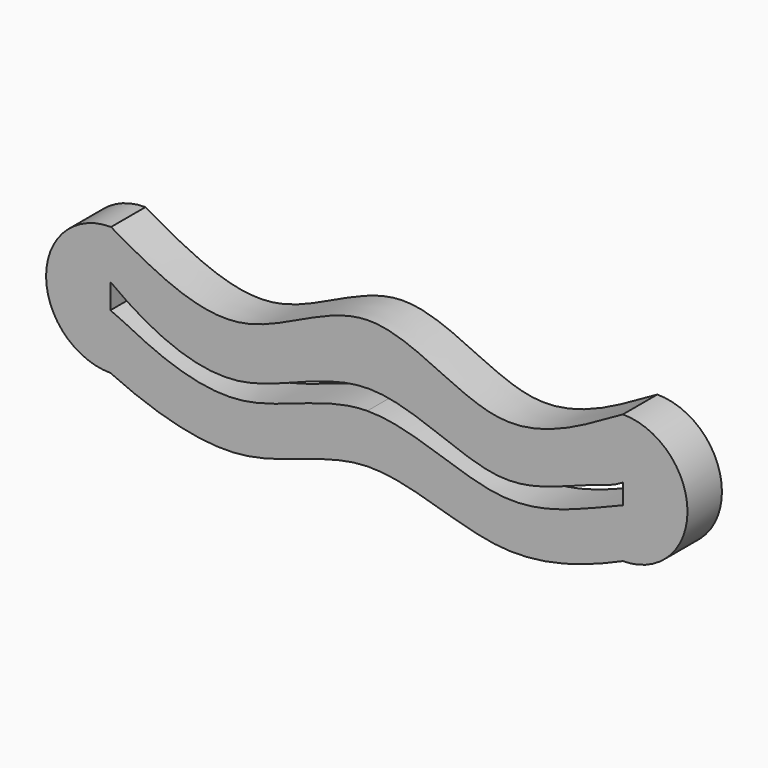
from build123d import *

# Parameters (mm, degrees)
F1_DEPTH = 12.7


with BuildPart() as f1:
    # F0 (on Front) → F1 (new body)
    with BuildSketch(Plane.XZ):
        with BuildLine():
            Line((-76.3732939959, -14.74838797), (-76.3732939959, -0.4407114726))
            ThreePointArc((-76.3732939959, -0.4407114726), (-95.3521876711, -19.4196051478), (-76.3732939959, -38.3984988231))
            Line((-76.3732939959, -38.3984988231), (-76.3732939959, -22.1225805581))
            Line((-76.3732939959, -22.1225805581), (-76.3732939959, -19.4196051478))
            Line((-76.3732939959, -19.4196051478), (-76.3732939959, -14.74838797))
        make_face()
        with BuildLine():
            add(Edge.make_bspline(
                [(-76.1963626412, -0.4415362147), (-63.4554494128, -7.7220580595), (-38.0442806352, -21.9071743913), (-12.7646136786, 0.0070951571), (0, 0)],
                knots=[0, 0, 0, 0, 0.2508053785, 0.5020542919, 0.5020542919, 0.5020542919, 0.5020542919], degree=3))
            ThreePointArc((-76.1963626412, -0.4415362147), (-76.2848273574, -0.4409176592), (-76.3732939959, -0.4407114726))
            Line((-76.3732939959, -0.4407114726), (-76.3732939959, -14.74838797))
            add(Edge.make_bspline(
                [(-76.3732939959, -14.74838797), (-72.5969617493, -17.5239941116), (-63.5968037874, -23.7991821261), (-36.7151744714, -33.5297470965), (-13.146769664, -17.5958580302), (0, -17.6980644464)],
                knots=[0, 0, 0, 0, 0.1291381136, 0.2978073868, 0.5059142002, 0.5059142002, 0.5059142002, 0.5059142002], degree=3))
            Line((0, -17.6980644464), (0, 0))
        make_face()
        with BuildLine():
            Line((-76.3732939959, -22.1225805581), (-76.3732939959, -38.3984988231))
            add(Edge.make_bspline(
                [(-76.3732939959, -38.3984988231), (-65.4556199398, -43.4326327745), (-37.2565335761, -53.3774078279), (-13.164973983, -38.3028608946), (-0.580739674, -38.0057516119)],
                knots=[0, 0, 0, 0, 0.2513224035, 0.5012724723, 0.5012724723, 0.5012724723, 0.5012724723], degree=3))
            Line((-0.580739674, -38.0057516119), (-0.580739674, -23.6018691003))
            add(Edge.make_bspline(
                [(-76.3732939959, -22.1225805581), (-73.1589388118, -23.3898365488), (-65.1887553099, -27.9716934806), (-36.6350701075, -38.4616835388), (-13.5775834306, -23.7202191897), (-0.580739674, -23.6018691003)],
                knots=[0, 0, 0, 0, 0.1163648791, 0.2930986778, 0.5017009921, 0.5017009921, 0.5017009921, 0.5017009921], degree=3))
        make_face()
        with BuildLine():
            add(Edge.make_bspline(
                [(-0.580739674, -38.0057516119), (12.2140355622, -37.7036715329), (38.4827264042, -51.7570425047), (63.290761935, -43.1919248679), (74.7976750135, -38.1)],
                knots=[0.5012724723, 0.5012724723, 0.5012724723, 0.5012724723, 0.7554043387, 1, 1, 1, 1], degree=3))
            Line((74.7976750135, -38.1), (74.7976750135, -23.6018691003))
            add(Edge.make_bspline(
                [(-0.580739674, -23.6018691003), (12.6602194247, -23.4812960809), (37.3141008426, -37.8699252067), (62.8787942653, -28.4608125207), (71.2976360715, -25.0581269531), (74.7976750135, -23.6018691003)],
                knots=[0.5017009921, 0.5017009921, 0.5017009921, 0.5017009921, 0.7142214134, 0.8820575377, 1, 1, 1, 1], degree=3))
            Line((-0.580739674, -23.6018691003), (-0.580739674, -38.0057516119))
        make_face()
        with BuildLine():
            add(Edge.make_bspline(
                [(0, 0), (12.7552967066, -0.0070899783), (38.2782597838, -21.7542719189), (62.256161725, -7.166579022), (74.7976750135, 0)],
                knots=[0.5020542919, 0.5020542919, 0.5020542919, 0.5020542919, 0.7531198172, 1, 1, 1, 1], degree=3))
            Line((0, 0), (0, -17.6980644464))
            add(Edge.make_bspline(
                [(0, -17.6980644464), (13.1387482498, -17.8002085021), (36.9175474541, -33.9201664032), (61.7346435389, -21.869234643), (71.1003039311, -19.9781574992), (74.7976750135, -17.6980644464)],
                knots=[0.5059142002, 0.5059142002, 0.5059142002, 0.5059142002, 0.7138940387, 0.8786625487, 1, 1, 1, 1], degree=3))
            Line((74.7976750135, -17.6980644464), (74.7976750135, 0))
        make_face()
        with BuildLine():
            ThreePointArc((74.7976750135, -38.1), (93.8476750135, -19.05), (74.7976750135, 0))
            Line((74.7976750135, 0), (74.7976750135, -17.6980644464))
            Line((74.7976750135, -17.6980644464), (74.7976750135, -19.05))
            Line((74.7976750135, -19.05), (74.7976750135, -23.6018691003))
            Line((74.7976750135, -23.6018691003), (74.7976750135, -38.1))
        make_face()
    extrude(amount=F1_DEPTH)


solid = f1.part
